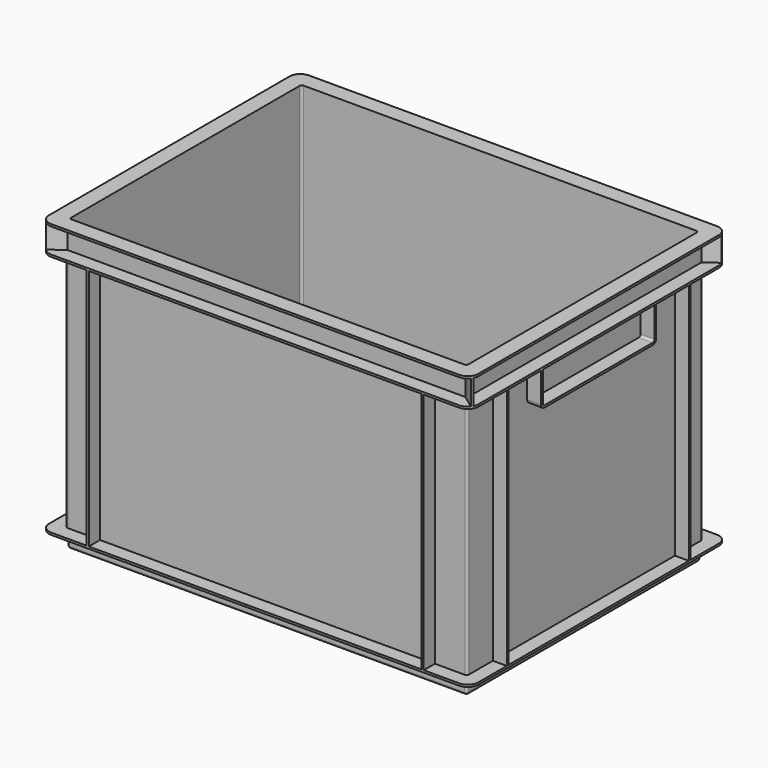
from build123d import *

# Parameters (mm, degrees)
F0_W      = 372
F0_H      = 272
F1_DEPTH  = 15
F2_W      = 372
F2_H      = 272
F3_DEPTH  = 2
F5_DEPTH  = 226
F7_DEPTH  = 2
F9_DEPTH  = 23
F11_DEPTH = 2
F12_W     = 370
F12_H     = 270
F13_DEPTH = 268
F15_DEPTH = 13
F17_DEPTH = 13
F18_R     = 2


with BuildPart() as f1:
    # F0 (on Top) → F1 (new body)
    with BuildSketch(Plane.XY):
        Rectangle(F0_W, F0_H)
    extrude(amount=F1_DEPTH)

    # F2 (on face) → F3 (join)
    with BuildSketch(Plane.XY.offset(15)):
        with BuildLine():
            Line((-190, -150), (190, -150))
            ThreePointArc((190, -150), (197.0710678119, -147.0710678119), (200, -140))
            Line((200, -140), (200, 140))
            ThreePointArc((200, 140), (197.0710678119, 147.0710678119), (190, 150))
            Line((190, 150), (-190, 150))
            ThreePointArc((-190, 150), (-197.0710678119, 147.0710678119), (-200, 140))
            Line((-200, 140), (-200, -140))
            ThreePointArc((-200, -140), (-197.0710678119, -147.0710678119), (-190, -150))
        make_face()
        Rectangle(F2_W, F2_H, mode=Mode.SUBTRACT)
        Rectangle(F2_W, F2_H)
    extrude(amount=F3_DEPTH)

    # F4 (on face) → F5 (join)
    with BuildSketch(Plane.XY.offset(17)):
        Polygon((157, -137), (187, -137), (187, -107), (200, -107), (200, -105), (187, -105), (187, 105), (200, 105), (200, 107), (187, 107), (187, 137), (157, 137), (157, 150), (155, 150), (155, 137), (-155, 137), (-155, 150), (-157, 150), (-157, 137), (-187, 137), (-187, 107), (-200, 107), (-200, 105), (-187, 105), (-187, -105), (-200, -105), (-200, -107), (-187, -107), (-187, -137), (-157, -137), (-157, -150), (-155, -150), (-155, -137), (155, -137), (155, -150), (157, -150), align=None)
    extrude(amount=F5_DEPTH)

    # F6 (on face) → F7 (join)
    with BuildSketch(Plane.XY.offset(243)):
        with BuildLine():
            Line((190, 150), (-190, 150))
            ThreePointArc((-190, 150), (-197.0710678119, 147.0710678119), (-200, 140))
            Line((-200, 140), (-200, -140))
            ThreePointArc((-200, -140), (-197.0710678119, -147.0710678119), (-190, -150))
            Line((-190, -150), (190, -150))
            ThreePointArc((190, -150), (197.0710678119, -147.0710678119), (200, -140))
            Line((200, -140), (200, 140))
            ThreePointArc((200, 140), (197.0710678119, 147.0710678119), (190, 150))
        make_face()
    extrude(amount=F7_DEPTH)

    # F8 (on face) → F9 (join)
    with BuildSketch(Plane.XY.offset(245)):
        with BuildLine():
            Line((-185.3079227659, -137), (185.3079227659, -137))
            Line((185.3079227659, -137), (197.8531877713, -146.1909160735))
            ThreePointArc((197.8531877713, -146.1909160735), (198.4340605379, -145.3727667773), (198.9300207482, -144.5005254622))
            Line((198.9300207482, -144.5005254622), (187, -135.7603498338))
            Line((187, -135.7603498338), (187, 135.7603498338))
            Line((187, 135.7603498338), (198.9300207482, 144.5005254622))
            ThreePointArc((198.9300207482, 144.5005254622), (198.4340605379, 145.3727667773), (197.8531877713, 146.1909160735))
            Line((197.8531877713, 146.1909160735), (185.3079227659, 137))
            Line((185.3079227659, 137), (-185.3079227659, 137))
            Line((-185.3079227659, 137), (-197.8531877713, 146.1909160735))
            ThreePointArc((-197.8531877713, 146.1909160735), (-198.4340605379, 145.3727667773), (-198.9300207482, 144.5005254622))
            Line((-198.9300207482, 144.5005254622), (-187, 135.7603498338))
            Line((-187, 135.7603498338), (-187, -135.7603498338))
            Line((-187, -135.7603498338), (-198.9300207482, -144.5005254622))
            ThreePointArc((-198.9300207482, -144.5005254622), (-198.4340605379, -145.3727667773), (-197.8531877713, -146.1909160735))
            Line((-197.8531877713, -146.1909160735), (-185.3079227659, -137))
        make_face()
    extrude(amount=F9_DEPTH)

    # F10 (on face) → F11 (join)
    with BuildSketch(Plane.XY.offset(268)):
        with BuildLine():
            Line((-190, -150), (190, -150))
            ThreePointArc((190, -150), (197.0710678119, -147.0710678119), (200, -140))
            Line((200, -140), (200, 140))
            ThreePointArc((200, 140), (197.0710678119, 147.0710678119), (190, 150))
            Line((190, 150), (-190, 150))
            ThreePointArc((-190, 150), (-197.0710678119, 147.0710678119), (-200, 140))
            Line((-200, 140), (-200, -140))
            ThreePointArc((-200, -140), (-197.0710678119, -147.0710678119), (-190, -150))
        make_face()
    extrude(amount=F11_DEPTH)

    # F12 (on face) → F13 (cut)
    with BuildSketch(Plane.XY.offset(270)):
        Rectangle(F12_W, F12_H)
    extrude(amount=-F13_DEPTH, mode=Mode.SUBTRACT)

    # F14 (on face) → F15 (join, through all)
    with BuildSketch(Plane(origin=(-187, 0, 0), x_dir=(0, -1, 0), z_dir=(-1, 0, 0))):
        with BuildLine():
            Line((-63, 211), (63, 211))
            ThreePointArc((63, 211), (65.8284271247, 212.1715728753), (67, 215))
            Line((67, 215), (67, 243))
            Line((67, 243), (65, 243))
            Line((65, 243), (65, 215))
            ThreePointArc((65, 215), (64.4142135624, 213.5857864376), (63, 213))
            Line((63, 213), (-63, 213))
            ThreePointArc((-63, 213), (-64.4142135624, 213.5857864376), (-65, 215))
            Line((-65, 215), (-65, 243))
            Line((-65, 243), (-67, 243))
            Line((-67, 243), (-67, 215))
            ThreePointArc((-67, 215), (-65.8284271247, 212.1715728753), (-63, 211))
        make_face()
    extrude(amount=F15_DEPTH)

    # F16 (on face) → F17 (join, through all)
    with BuildSketch(Plane.YZ.offset(187)):
        with BuildLine():
            ThreePointArc((63, 211), (65.8284271247, 212.1715728753), (67, 215))
            Line((67, 215), (67, 243))
            Line((67, 243), (65, 243))
            Line((65, 243), (65, 215))
            ThreePointArc((65, 215), (64.4142135624, 213.5857864376), (63, 213))
            Line((63, 213), (-63, 213))
            ThreePointArc((-63, 213), (-64.4142135624, 213.5857864376), (-65, 215))
            Line((-65, 215), (-65, 243))
            Line((-65, 243), (-67, 243))
            Line((-67, 243), (-67, 215))
            ThreePointArc((-67, 215), (-65.8284271247, 212.1715728753), (-63, 211))
            Line((-63, 211), (63, 211))
        make_face()
    extrude(amount=F17_DEPTH)

    # F18
    f18_edges = [f1.edges().sort_by_distance(p)[0] for p in [
        (-185, -135, 136),
        (185, -135, 136),
        (185, 135, 136),
        (0, 135, 2),
        (185, 0, 2),
        (0, -135, 2),
        (-185, 0, 2),
        (-185, 135, 136),
        (187, -137, 130),
        (187, 137, 130),
        (-187, 137, 130),
        (-187, -137, 130),
        (186, 0, 0),
        (0, 136, 0),
        (186, 136, 7.5),
        (0, -136, 0),
        (186, -136, 7.5),
        (-186, -136, 7.5),
        (-186, 0, 0),
        (-186, 136, 7.5),
    ]]
    fillet(f18_edges, radius=F18_R)


solid = f1.part
